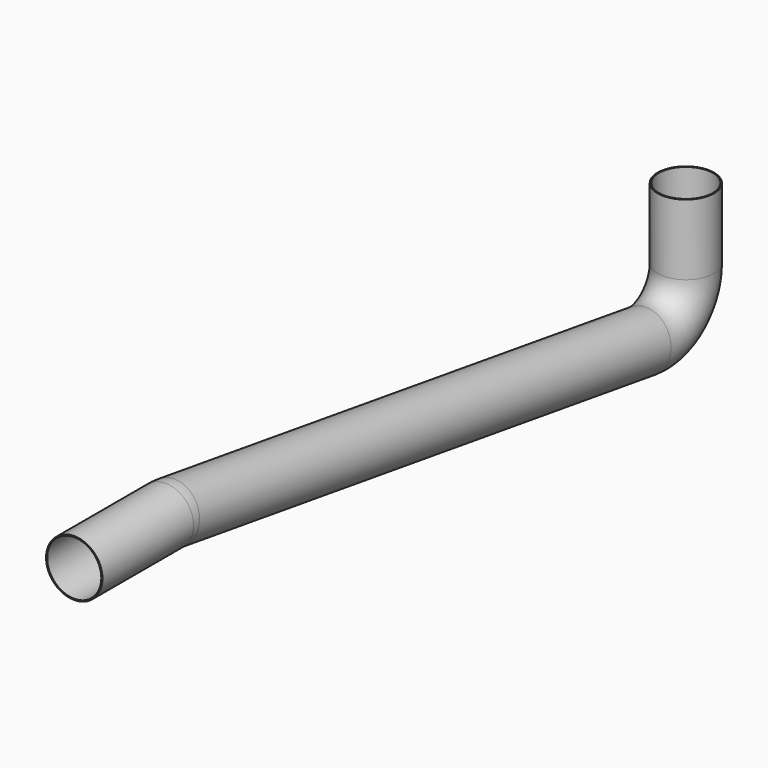
from build123d import *

# Parameters (mm, degrees)
F1_R   = 6
F1_R_2 = 5.75


with BuildPart() as f2:
    # F2: sweep along a path in F0
    with BuildLine(Plane.YZ) as f2_path:
        Line((0, 0), (0, -15))
        ThreePointArc((0, -15), (-3.474051, -22.57707), (-11.482397, -24.889515))
        Line((-11.482397, -24.889515), (-136.762919, -6.110485))
        ThreePointArc((-136.762919, -6.110485), (-137.502062, -6.02766), (-138.245316, -6))
        Line((-138.245316, -6), (-162.5, -6))
    # F1 (on Top) → F2 (sweep)
    with BuildSketch(Plane.XY):
        Circle(F1_R)
        Circle(F1_R_2, mode=Mode.SUBTRACT)
    sweep(path=f2_path.line)


solid = f2.part
